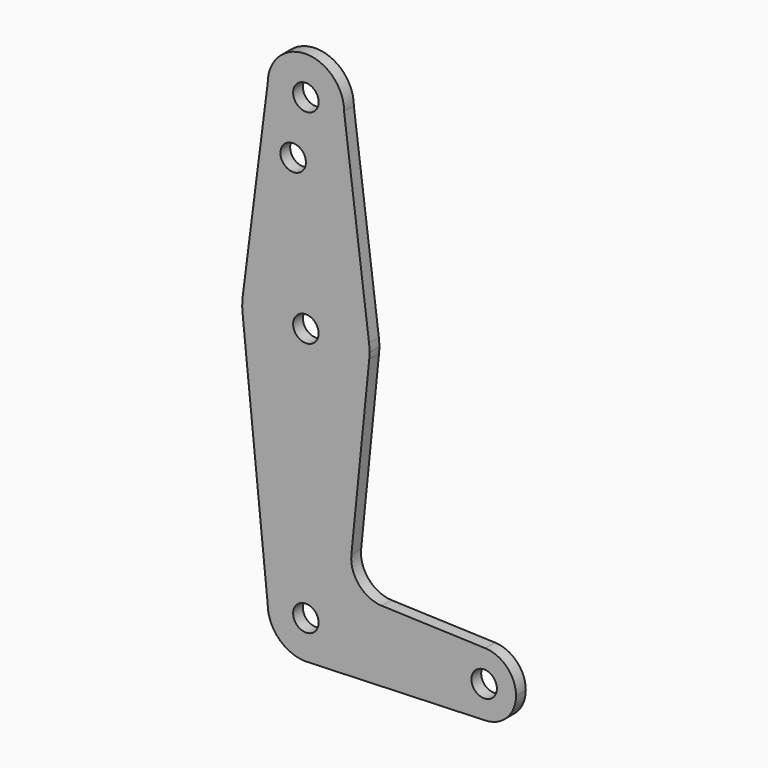
from build123d import *

# Parameters (mm, degrees)
F0_R     = 3.175
F1_DEPTH = 3.048


with BuildPart() as f1:
    # F0 (on Front) → F1 (new body)
    with BuildSketch(Plane.XZ):
        with BuildLine():
            ThreePointArc((-9.525, 114.3), (0, 104.775), (9.525, 114.3))
            ThreePointArc((9.525, 114.3), (0, 123.825), (-9.525, 114.3))
        make_face()
        with Locations((0, 114.3)):
            Circle(F0_R, mode=Mode.SUBTRACT)
        with BuildLine():
            Line((15.747457, 65.508289), (9.525, 114.3))
            ThreePointArc((9.525, 114.3), (0, 104.775), (-9.525, 114.3))
            Line((-9.525, 114.3), (-15.747457, 65.508289))
            ThreePointArc((-15.747457, 65.508289), (0, 79.375), (15.747457, 65.508289))
        make_face()
        with Locations((-3.175, 100.0252)):
            Circle(F0_R, mode=Mode.SUBTRACT)
        with BuildLine():
            ThreePointArc((15.875, 63.5), (15.843082, 64.506168), (15.747457, 65.508289))
            ThreePointArc((15.747457, 65.508289), (0, 79.375), (-15.747457, 65.508289))
            ThreePointArc((-15.747457, 65.508289), (-15.873668, 63.705667), (-15.794203, 61.90038))
            ThreePointArc((-15.794203, 61.90038), (0.006091, 47.625001), (15.795426, 61.9125))
            ThreePointArc((15.795426, 61.9125), (15.855094, 62.705253), (15.875, 63.5))
        make_face()
        with Locations((0, 63.5)):
            Circle(F0_R, mode=Mode.SUBTRACT)
        with BuildLine():
            ThreePointArc((15.795426, 61.9125), (0.006091, 47.625001), (-15.794203, 61.90038))
            Line((-15.794203, 61.90038), (-9.525, 0))
            ThreePointArc((-9.525, 0), (0, 9.525), (9.525, 0))
            ThreePointArc((9.525, 0), (6.970557, -6.491299), (0.677344, -9.500886))
            Line((0.677344, -9.500886), (44.732405, -7.932475))
            ThreePointArc((44.732405, -7.932475), (36.5125, 0), (44.732405, 7.932475))
            Line((44.732405, 7.932475), (18.9676, 8.853234))
            ThreePointArc((18.9676, 8.853234), (13.2612, 11.571359), (11.341187, 17.593382))
            Line((11.341187, 17.593382), (15.795426, 61.9125))
        make_face()
        with BuildLine():
            ThreePointArc((9.525, 0), (0, 9.525), (-9.525, 0))
            ThreePointArc((-9.525, 0), (-6.735192, -6.735192), (0, -9.525))
            Line((0, -9.525), (0.677344, -9.500886))
            ThreePointArc((0.677344, -9.500886), (6.970557, -6.491299), (9.525, 0))
        make_face()
        Circle(F0_R, mode=Mode.SUBTRACT)
        with BuildLine():
            ThreePointArc((52.3875, 0), (50.161633, 5.51191), (44.732405, 7.932475))
            ThreePointArc((44.732405, 7.932475), (36.5125, 0), (44.732405, -7.932475))
            ThreePointArc((44.732405, -7.932475), (50.161633, -5.51191), (52.3875, 0))
        make_face()
        with Locations((44.45, 0)):
            Circle(F0_R, mode=Mode.SUBTRACT)
    extrude(amount=F1_DEPTH)


solid = f1.part
